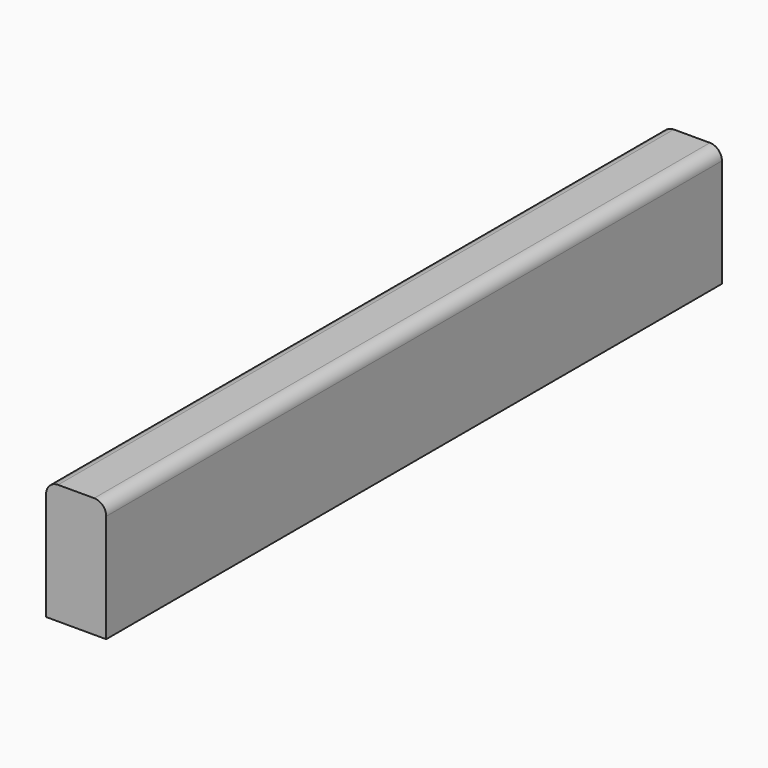
from build123d import *

# Parameters (mm, degrees)
F1_DEPTH = 320


with BuildPart() as f1:
    # F0 (on Front) → F1 (new body)
    with BuildSketch(Plane.XZ):
        with BuildLine():
            Line((0, 45), (0, 0))
            Line((0, 0), (25, 0))
            Line((25, 0), (25, 45))
            ThreePointArc((25, 45), (23.535534, 48.535534), (20, 50))
            Line((20, 50), (5, 50))
            ThreePointArc((5, 50), (1.464466, 48.535534), (0, 45))
        make_face()
    extrude(amount=F1_DEPTH)


solid = f1.part
